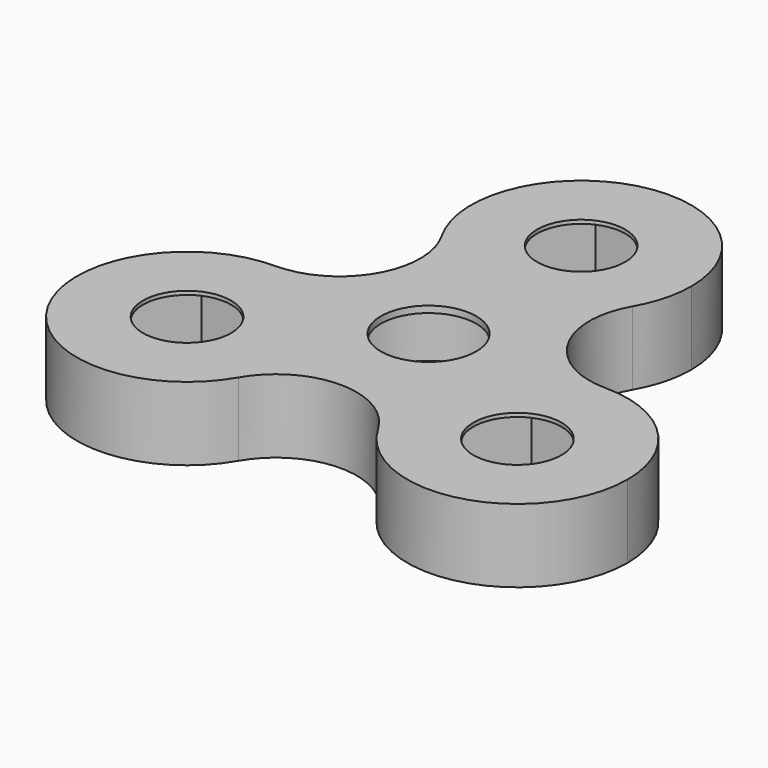
from build123d import *

# Parameters (mm, degrees)
F0_R     = 6
F0_R_2   = 6.5
F1_DEPTH = 5
F2_R     = 11.25
F3_DEPTH = 4.1
F5_DEPTH = 4.5


with BuildPart() as f1:
    # F0 (on Top) → F1 (new body, symmetric)
    with BuildSketch(Plane.XY):
        with BuildLine():
            ThreePointArc((12.990381, 18.480762), (14.488887, 22.098476), (15, 25.980762))
            ThreePointArc((15, 25.980762), (-3.882286, 40.46965), (-12.990381, 18.480762))
            ThreePointArc((-12.990381, 18.480762), (0, 10.980762), (12.990381, 18.480762))
        make_face()
        with Locations((0, 25.980762)):
            Circle(F0_R, mode=Mode.SUBTRACT)
        with BuildLine():
            ThreePointArc((12.990381, 18.480762), (0, 10.980762), (-12.990381, 18.480762))
            ThreePointArc((-12.990381, 18.480762), (-12.990381, 7.5), (-22.5, 2.009619))
            ThreePointArc((-22.5, 2.009619), (-11.893398, -2.383779), (-7.5, -12.990381))
            ThreePointArc((-7.5, -12.990381), (-8.011113, -16.872667), (-9.509619, -20.490381))
            ThreePointArc((-9.509619, -20.490381), (0, -15), (9.509619, -20.490381))
            ThreePointArc((9.509619, -20.490381), (9.509619, -5.490381), (22.5, 2.009619))
            ThreePointArc((22.5, 2.009619), (12.990381, 7.5), (12.990381, 18.480762))
        make_face()
        Circle(F0_R_2, mode=Mode.SUBTRACT)
        with BuildLine():
            ThreePointArc((-7.5, -12.990381), (-11.893398, -2.383779), (-22.5, 2.009619))
            ThreePointArc((-22.5, 2.009619), (-35.490381, -20.490381), (-9.509619, -20.490381))
            ThreePointArc((-9.509619, -20.490381), (-8.011113, -16.872667), (-7.5, -12.990381))
        make_face()
        with Locations((-22.5, -12.990381)):
            Circle(F0_R, mode=Mode.SUBTRACT)
        with BuildLine():
            ThreePointArc((37.5, -12.990381), (33.106602, -2.383779), (22.5, 2.009619))
            ThreePointArc((22.5, 2.009619), (9.509619, -5.490381), (9.509619, -20.490381))
            ThreePointArc((9.509619, -20.490381), (26.382286, -27.479268), (37.5, -12.990381))
        make_face()
        with Locations((22.5, -12.990381)):
            Circle(F0_R, mode=Mode.SUBTRACT)
    extrude(amount=F1_DEPTH, both=True)

    # F2 (on Top) → F3 (cut, symmetric)
    with BuildSketch(Plane.XY):
        Circle(F2_R)
    extrude(amount=F3_DEPTH, both=True, mode=Mode.SUBTRACT)

    # F4 (on Top) → F5 (cut, symmetric)
    with BuildSketch(Plane.XY):
        Polygon((27.551815, -4.240381), (17.448185, -4.240381), (12.39637, -12.990381), (17.448185, -21.740381), (27.551815, -21.740381), (32.60363, -12.990381), align=None)
        Polygon((-12.39637, -12.990381), (-17.448185, -4.240381), (-27.551815, -4.240381), (-32.60363, -12.990381), (-27.551815, -21.740381), (-17.448185, -21.740381), align=None)
        Polygon((-5.051815, 17.230762), (5.051815, 17.230762), (10.10363, 25.980762), (5.051815, 34.730762), (-5.051815, 34.730762), (-10.10363, 25.980762), align=None)
    extrude(amount=F5_DEPTH, both=True, mode=Mode.SUBTRACT)


solid = f1.part
